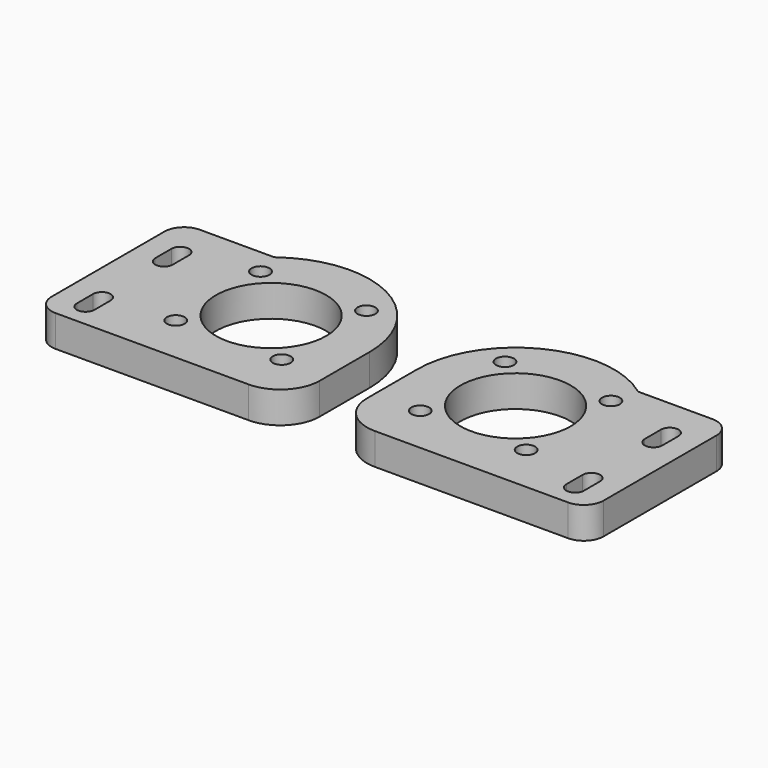
from build123d import *

# Parameters (mm, degrees)
F0_R     = 2.265
F0_R_2   = 14
F1_DEPTH = 8


with BuildPart() as f1:
    # F0 (on Top) → F1 (new body)
    with BuildSketch(Plane.XY):
        with BuildLine():
            Line((-88.381675, 1.503936), (-106.949748, 1.503936))
            ThreePointArc((-106.949748, 1.503936), (-110.485281, 0.03947), (-111.949748, -3.496064))
            Line((-111.949748, -3.496064), (-111.949748, -39.266064))
            ThreePointArc((-111.949748, -39.266064), (-110.485281, -42.801598), (-106.949748, -44.266064))
            Line((-106.949748, -44.266064), (-84.717208, -44.266064))
            Line((-84.717208, -44.266064), (-57.949748, -44.266064))
            ThreePointArc((-57.949748, -44.266064), (-50.87868, -41.337132), (-47.949748, -34.266064))
            Line((-47.949748, -34.266064), (-47.949748, -18.421064))
            ThreePointArc((-47.949748, -18.421064), (-61.679428, 3.894399), (-87.788139, 1.699128))
            ThreePointArc((-87.788139, 1.699128), (-88.069271, 1.553986), (-88.381675, 1.503936))
        make_face()
        with BuildLine():
            Line((-101.799748, -33.231064), (-101.799748, -38.381064))
            ThreePointArc((-101.799748, -38.381064), (-104.024748, -40.606064), (-106.249748, -38.381064))
            Line((-106.249748, -38.381064), (-106.249748, -33.231064))
            ThreePointArc((-106.249748, -33.231064), (-104.024748, -31.006064), (-101.799748, -33.231064))
        make_face(mode=Mode.SUBTRACT)
        with Locations((-86.384776, -31.856093)):
            Circle(F0_R, mode=Mode.SUBTRACT)
        with Locations((-59.514719, -31.856093)):
            Circle(F0_R, mode=Mode.SUBTRACT)
        with BuildLine():
            Line((-106.249748, -13.531064), (-106.249748, -8.381064))
            ThreePointArc((-106.249748, -8.381064), (-104.024748, -6.156064), (-101.799748, -8.381064))
            Line((-101.799748, -8.381064), (-101.799748, -13.531064))
            ThreePointArc((-101.799748, -13.531064), (-104.024748, -15.756064), (-106.249748, -13.531064))
        make_face(mode=Mode.SUBTRACT)
        with Locations((-72.949748, -18.421064)):
            Circle(F0_R_2, mode=Mode.SUBTRACT)
        with Locations((-86.384776, -4.986036)):
            Circle(F0_R, mode=Mode.SUBTRACT)
        with Locations((-59.514719, -4.986036)):
            Circle(F0_R, mode=Mode.SUBTRACT)
        with BuildLine():
            Line((23.050252, 1.503936), (4.48218, 1.503936))
            ThreePointArc((4.48218, 1.503936), (4.169776, 1.553986), (3.888644, 1.699128))
            ThreePointArc((3.888644, 1.699128), (-22.220067, 3.894399), (-35.949748, -18.421064))
            Line((-35.949748, -18.421064), (-35.949748, -34.266064))
            ThreePointArc((-35.949748, -34.266064), (-33.020815, -41.337132), (-25.949748, -44.266064))
            Line((-25.949748, -44.266064), (0.817713, -44.266064))
            Line((0.817713, -44.266064), (23.050252, -44.266064))
            ThreePointArc((23.050252, -44.266064), (26.585786, -42.801598), (28.050252, -39.266064))
            Line((28.050252, -39.266064), (28.050252, -3.496064))
            ThreePointArc((28.050252, -3.496064), (26.585786, 0.03947), (23.050252, 1.503936))
        make_face()
        with Locations((-24.384776, -31.856093)):
            Circle(F0_R, mode=Mode.SUBTRACT)
        with Locations((2.485281, -31.856093)):
            Circle(F0_R, mode=Mode.SUBTRACT)
        with BuildLine():
            Line((22.350252, -33.231064), (22.350252, -38.381064))
            ThreePointArc((22.350252, -38.381064), (20.125252, -40.606064), (17.900252, -38.381064))
            Line((17.900252, -38.381064), (17.900252, -33.231064))
            ThreePointArc((17.900252, -33.231064), (20.125252, -31.006064), (22.350252, -33.231064))
        make_face(mode=Mode.SUBTRACT)
        with Locations((-10.949748, -18.421064)):
            Circle(F0_R_2, mode=Mode.SUBTRACT)
        with BuildLine():
            Line((17.900252, -13.531064), (17.900252, -8.381064))
            ThreePointArc((17.900252, -8.381064), (20.125252, -6.156064), (22.350252, -8.381064))
            Line((22.350252, -8.381064), (22.350252, -13.531064))
            ThreePointArc((22.350252, -13.531064), (20.125252, -15.756064), (17.900252, -13.531064))
        make_face(mode=Mode.SUBTRACT)
        with Locations((-24.384776, -4.986036)):
            Circle(F0_R, mode=Mode.SUBTRACT)
        with Locations((2.485281, -4.986036)):
            Circle(F0_R, mode=Mode.SUBTRACT)
    extrude(amount=F1_DEPTH)


solid = f1.part
